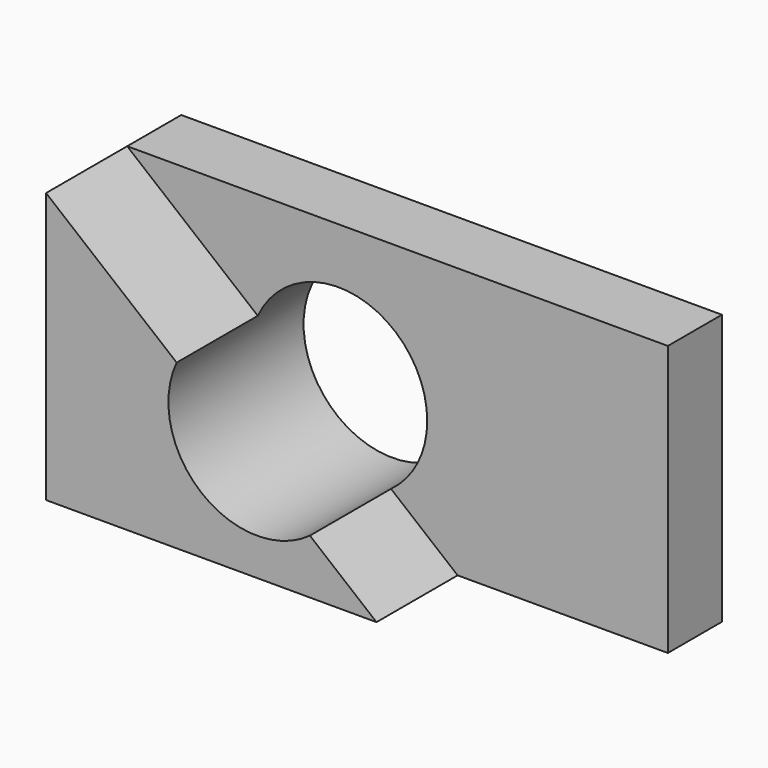
from build123d import *

# Parameters (mm, degrees)
F0_W     = 203.2
F0_H     = 101.6
F1_DEPTH = 25.4
F3_DEPTH = 38.1
F4_R     = 33.39551
F5_DEPTH = 134.62


with BuildPart() as f1:
    # F0 (on Front) → F1 (new body)
    with BuildSketch(Plane.XZ):
        with Locations((-22.587857, 43.542857)):
            Rectangle(F0_W, F0_H)
    extrude(amount=F1_DEPTH)

    # F2 (on face) → F3 (join)
    with BuildSketch(Plane.XZ.offset(25.4)):
        Polygon((0, -7.257143), (-124.187857, 94.342857), (-124.187857, -7.257143), align=None)
    extrude(amount=F3_DEPTH)

    # F4 (on face) → F5 (cut)
    with BuildSketch(Plane.XZ.offset(63.5)):
        with Locations((-44.81934, 40.134594)):
            Circle(F4_R)
    extrude(amount=-F5_DEPTH, mode=Mode.SUBTRACT)


solid = f1.part
